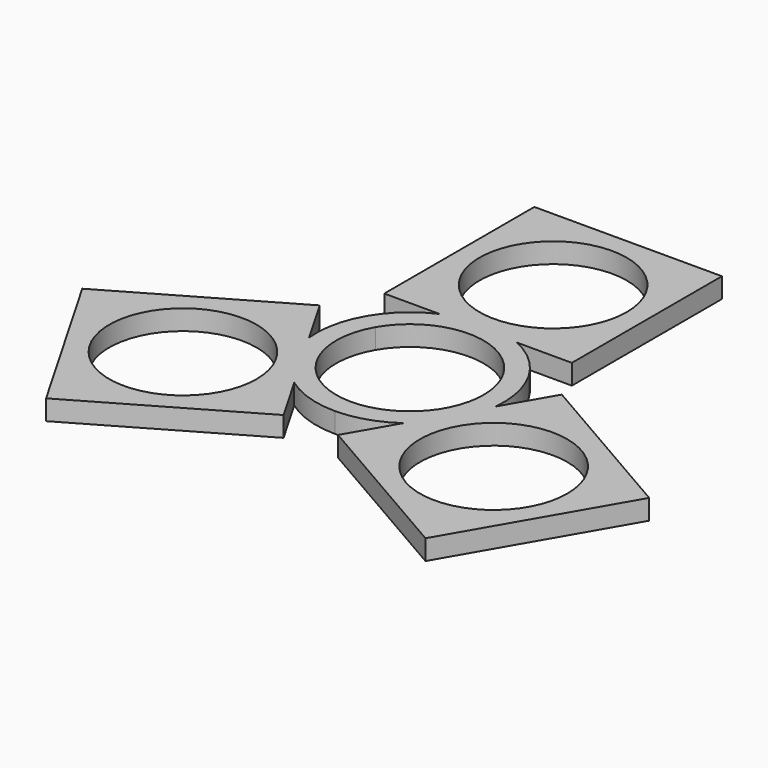
from build123d import *

# Parameters (mm, degrees)
F0_R     = 11
F1_DEPTH = 3


with BuildPart() as f1:
    # F0 (on Top) → F1 (new body)
    with BuildSketch(Plane.XY):
        with BuildLine():
            Line((-14.027199, 12.756373), (-5.768445, 12.756373))
            ThreePointArc((-5.768445, 12.756373), (-9.39798, 10.3768), (-12.124356, 7))
            ThreePointArc((-12.124356, 7), (-13.685562, 2.95049), (-13.931565, -1.382567))
            Line((-13.931565, -1.382567), (-18.033744, 5.722614))
            Line((-18.033744, 5.722614), (-42.282455, -8.277386))
            Line((-42.282455, -8.277386), (-28.282455, -32.526097))
            Line((-28.282455, -32.526097), (-4.033744, -18.526097))
            Line((-4.033744, -18.526097), (-8.163121, -11.373806))
            ThreePointArc((-8.163121, -11.373806), (-4.287582, -13.327289), (0, -14))
            ThreePointArc((0, -14), (4.287582, -13.327289), (8.163121, -11.373806))
            Line((8.163121, -11.373806), (4.060942, -18.478987))
            Line((4.060942, -18.478987), (28.309654, -32.478987))
            Line((28.309654, -32.478987), (42.309654, -8.230276))
            Line((42.309654, -8.230276), (18.060942, 5.769724))
            Line((18.060942, 5.769724), (13.931565, -1.382567))
            ThreePointArc((13.931565, -1.382567), (13.685562, 2.95049), (12.124356, 7))
            ThreePointArc((12.124356, 7), (9.39798, 10.3768), (5.768445, 12.756373))
            Line((5.768445, 12.756373), (13.972801, 12.756373))
            Line((13.972801, 12.756373), (13.972801, 40.756373))
            Line((13.972801, 40.756373), (-14.027199, 40.756373))
            Line((-14.027199, 40.756373), (-14.027199, 12.756373))
        make_face()
        with Locations((-23.158099, -13.401741)):
            Circle(F0_R, mode=Mode.SUBTRACT)
        with BuildLine():
            ThreePointArc((-9.526279, 5.5), (0, 11), (9.526279, 5.5))
            ThreePointArc((9.526279, 5.5), (9.526279, -5.5), (0, -11))
            ThreePointArc((0, -11), (-9.526279, -5.5), (-9.526279, 5.5))
        make_face(mode=Mode.SUBTRACT)
        with Locations((23.185298, -13.354632)):
            Circle(F0_R, mode=Mode.SUBTRACT)
        with Locations((-0.027199, 26.756373)):
            Circle(F0_R, mode=Mode.SUBTRACT)
    extrude(amount=F1_DEPTH)


solid = f1.part
